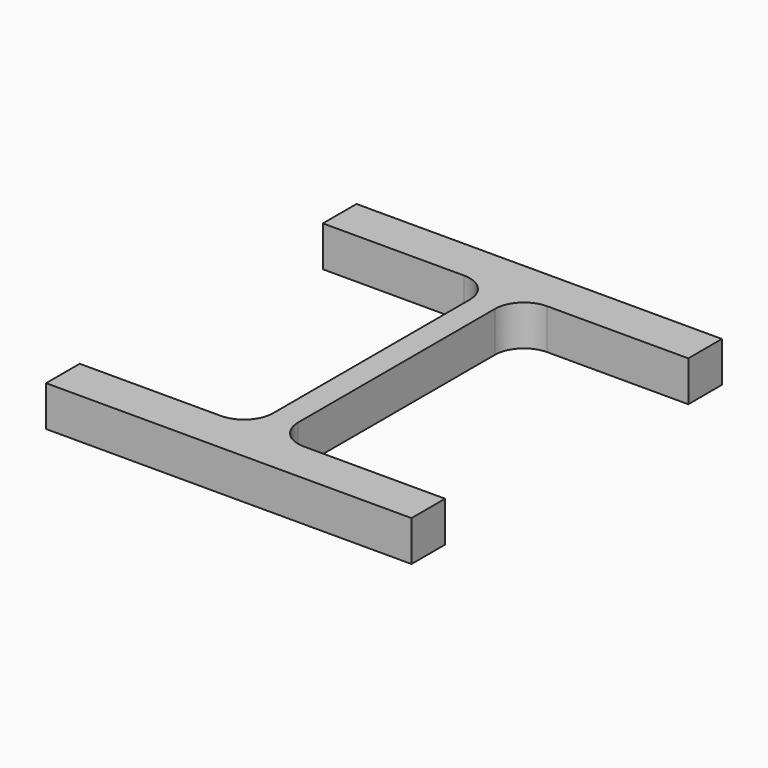
from build123d import *

# Parameters (mm, degrees)
F1_DEPTH = 25


with BuildPart() as f1:
    # F0 (on Top) → F1 (new body)
    with BuildSketch(Plane.XY):
        with BuildLine():
            Line((105.25, 102.916656), (-120.75, 102.916656))
            Line((-120.75, 102.916656), (-120.75, 76.916656))
            Line((-120.75, 76.916656), (-33.5, 76.916656))
            ThreePointArc((-33.5, 76.916656), (-20.772078, 71.644578), (-15.5, 58.916656))
            Line((-15.5, 58.916656), (-15.5, -93.083344))
            ThreePointArc((-15.5, -93.083344), (-20.772078, -105.811266), (-33.5, -111.083344))
            Line((-33.5, -111.083344), (-120.75, -111.083344))
            Line((-120.75, -111.083344), (-120.75, -137.083344))
            Line((-120.75, -137.083344), (105.25, -137.083344))
            Line((105.25, -137.083344), (105.25, -111.083344))
            Line((105.25, -111.083344), (18, -111.083344))
            ThreePointArc((18, -111.083344), (5.272078, -105.811266), (0, -93.083344))
            Line((0, -93.083344), (0, 58.916656))
            ThreePointArc((0, 58.916656), (5.272078, 71.644578), (18, 76.916656))
            Line((18, 76.916656), (105.25, 76.916656))
            Line((105.25, 76.916656), (105.25, 102.916656))
        make_face()
    extrude(amount=F1_DEPTH)


solid = f1.part
